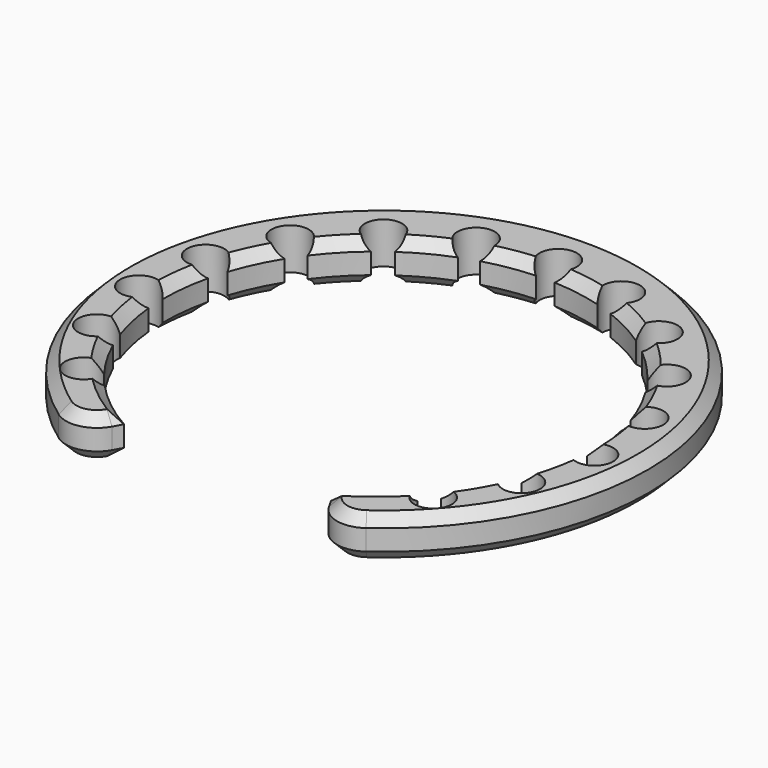
from build123d import *

# Parameters (mm, degrees)
PAD_DEPTH             = 4
FILLET_R              = 3
CHAMFER_SIZE          = 1
CHAMFER001_SIZE       = 1
CHAMFER002_SIZE       = 1
CHAMFER003_SIZE       = 1
POCKET_DEPTH          = 142.660294
POLARPATTERN_COUNT    = 8
POLARPATTERN_ANGLE    = 130
POLARPATTERN001_COUNT = 8
POLARPATTERN001_ANGLE = 130


with BuildPart() as part:
    # Sketch → Pad (new body)
    with BuildSketch(Plane.XY):
        with BuildLine():
            ThreePointArc((10, -17.89553), (0, 20.5), (-10, -17.89553))
            Line((-10, -17.89553), (-12.010918, -21.494174))
            ThreePointArc((12.010918, -21.494174), (0, 26.5), (-12.010918, -21.494174))
            Line((10, -17.89553), (12.010918, -21.494174))
        make_face()
    extrude(amount=PAD_DEPTH)

    # Fillet
    fillet_edges = [part.edges().sort_by_distance(p)[0] for p in [
        (-12.010918, -21.494174, 2),
        (12.010918, -21.494174, 2),
    ]]
    fillet(fillet_edges, radius=FILLET_R)

    # Chamfer
    chamfer_edges = [part.edges().sort_by_distance(p)[0] for p in [
        (0, 26.5, 0),
    ]]
    chamfer(chamfer_edges, length=CHAMFER_SIZE)

    # Chamfer001
    chamfer001_edges = [part.edges().sort_by_distance(p)[0] for p in [
        (0, 20.5, 0),
    ]]
    chamfer(chamfer001_edges, length=CHAMFER001_SIZE)

    # Chamfer002
    chamfer002_edges = [part.edges().sort_by_distance(p)[0] for p in [
        (0, 26.5, 4),
    ]]
    chamfer(chamfer002_edges, length=CHAMFER002_SIZE)

    # Chamfer003
    chamfer003_edges = [part.edges().sort_by_distance(p)[0] for p in [
        (0, 20.5, 4),
    ]]
    chamfer(chamfer003_edges, length=CHAMFER003_SIZE)

    # Sketch001 → Pocket (cut, through all)
    with BuildSketch(Plane.XY):
        with BuildLine():
            Line((0, 0), (0.9, 20.480234))
            ThreePointArc((0.9, 20.480234), (0, 23.83908), (-0.9, 20.480234))
            Line((-0.9, 20.480234), (0, 0))
        make_face()
    pocket = extrude(amount=POCKET_DEPTH, mode=Mode.SUBTRACT)

    # PolarPattern: Pocket ×8 about axis
    polarpattern_axis = Axis((0, 0, 0), (0, 0, 1))
    for i in range(1, POLARPATTERN_COUNT):
        add(pocket.rotate(polarpattern_axis, i * POLARPATTERN_ANGLE / (POLARPATTERN_COUNT - 1)), mode=Mode.SUBTRACT)

    # PolarPattern001: Pocket ×8 about axis
    polarpattern001_axis = Axis((0, 0, 0), (0, 0, -1))
    for i in range(1, POLARPATTERN001_COUNT):
        add(pocket.rotate(polarpattern001_axis, i * POLARPATTERN001_ANGLE / (POLARPATTERN001_COUNT - 1)), mode=Mode.SUBTRACT)


solid = part.part
